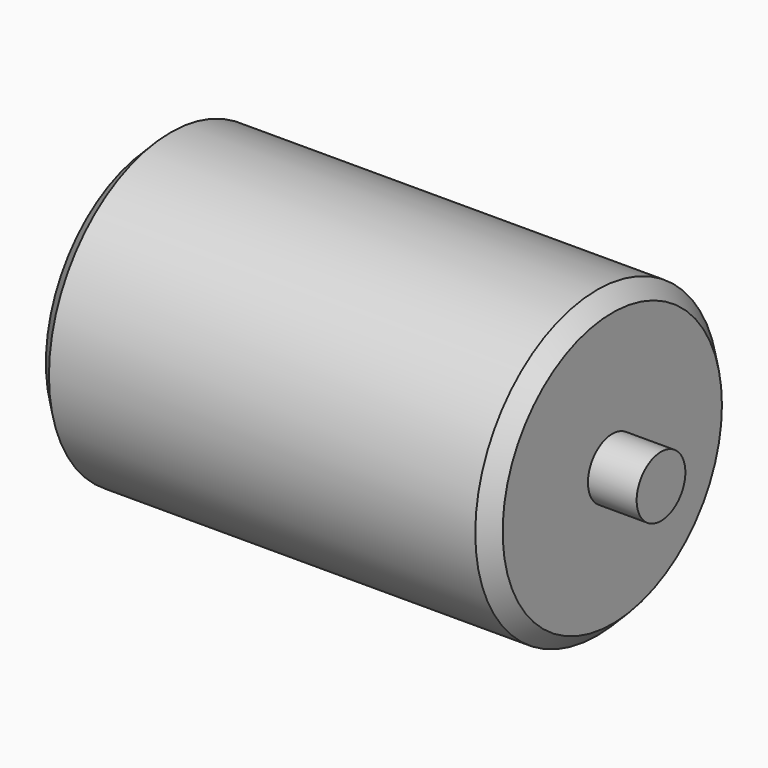
from build123d import *

# Parameters (mm, degrees)
F2_SIZE2 = 5
F2_SIZE  = 5
F3_SIZE2 = 5
F3_SIZE  = 5


with BuildPart() as f1:
    # F0 (on Top) → F1 (revolve)
    with BuildSketch(Plane.XY):
        Polygon((-91, 10), (-91, 0), (91, 0), (91, 10), (75, 10), (75, 50), (-75, 50), (-75, 10), align=None)
    revolve(axis=Axis((0, 0, 0), (-1, 0, 0)))

    # F2
    f2_edges = [f1.edges().sort_by_distance(p)[0] for p in [
        (75, -50, 0),
    ]]
    chamfer(f2_edges, length=F2_SIZE, length2=F2_SIZE2)

    # F3
    f3_edges = [f1.edges().sort_by_distance(p)[0] for p in [
        (-75, -50, 0),
    ]]
    chamfer(f3_edges, length=F3_SIZE, length2=F3_SIZE2)


solid = f1.part
